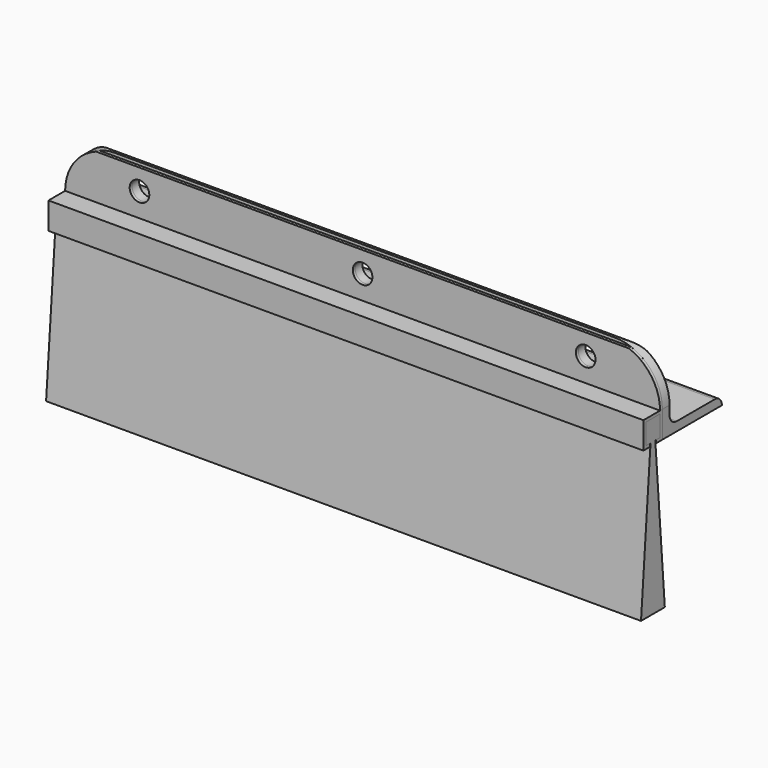
from build123d import *

# Parameters (mm, degrees)
F1_DEPTH = 100
F3_DEPTH = 100
F5_DEPTH = 200
F7_D     = 6.6
F7_2_D   = 6.6
F9_DEPTH = 26.001


with BuildPart() as f1:
    # F0 (on Right) → F1 (new body, symmetric)
    with BuildSketch(Plane.YZ):
        Polygon((4, 0), (4, 24), (3, 24), (3, 9), (-4, 9), (-4, 0), (-1.25, 0), (-1.25, 1), (-3, 1), (-3, 8), (3, 8), (3, 1), (1.25, 1), (1.25, 0), align=None)
    extrude(amount=F1_DEPTH, both=True)

    # F7 (through all)
    with Locations(Plane.XZ.offset(-3)):
        with Locations((-75, 17), (0, 17), (75, 17)):
            Hole(F7_D / 2)


with BuildPart() as f3:
    # F2 (on Right) → F3 (new body, symmetric)
    with BuildSketch(Plane.YZ):
        Polygon((3, 8), (-3, 8), (-3, 1), (-1, 1), (-5, -50), (5, -50), (1, 1), (3, 1), align=None)
    extrude(amount=F3_DEPTH, both=True)


with BuildPart() as f5:
    # F4 (on face) → F5 (new body, through all)
    with BuildSketch(Plane.YZ.offset(100)):
        with BuildLine():
            ThreePointArc((7, 22), (6.1213203436, 24.1213203436), (4, 25))
            Line((4, 25), (4, 0))
            Line((4, 0), (29, 0))
            ThreePointArc((29, 0), (28.1213203436, 2.1213203436), (26, 3))
            Line((26, 3), (10, 3))
            ThreePointArc((10, 3), (7.8786796564, 3.8786796564), (7, 6))
            Line((7, 6), (7, 22))
        make_face()
    extrude(amount=-F5_DEPTH)

    # F7#2 (through all)
    with Locations(Plane.XZ.offset(-3)):
        with Locations((-75, 17), (0, 17), (75, 17)):
            Hole(F7_2_D / 2)


with BuildPart() as f9_tool:
    # F8 (on face) → F9 (new body, through all)
    with BuildSketch(Plane.XZ.offset(-3)):
        with BuildLine():
            ThreePointArc((-100, 9), (-95.313708499, 20.313708499), (-84, 25))
            Line((-84, 25), (-100, 25))
            Line((-100, 25), (-100, 9))
        make_face()
        with BuildLine():
            Line((100, 25), (84, 25))
            ThreePointArc((84, 25), (95.313708499, 20.313708499), (100, 9))
            Line((100, 9), (100, 25))
        make_face()
    extrude(amount=-F9_DEPTH)


with BuildPart() as f1_1:
    add(f1.part)

    # F9: cut by f9_tool
    add(f9_tool.part, mode=Mode.SUBTRACT)


with BuildPart() as f5_1:
    add(f5.part)

    # F9: cut by f9_tool
    add(f9_tool.part, mode=Mode.SUBTRACT)


solid = Compound([f3.part, f1_1.part, f5_1.part])
